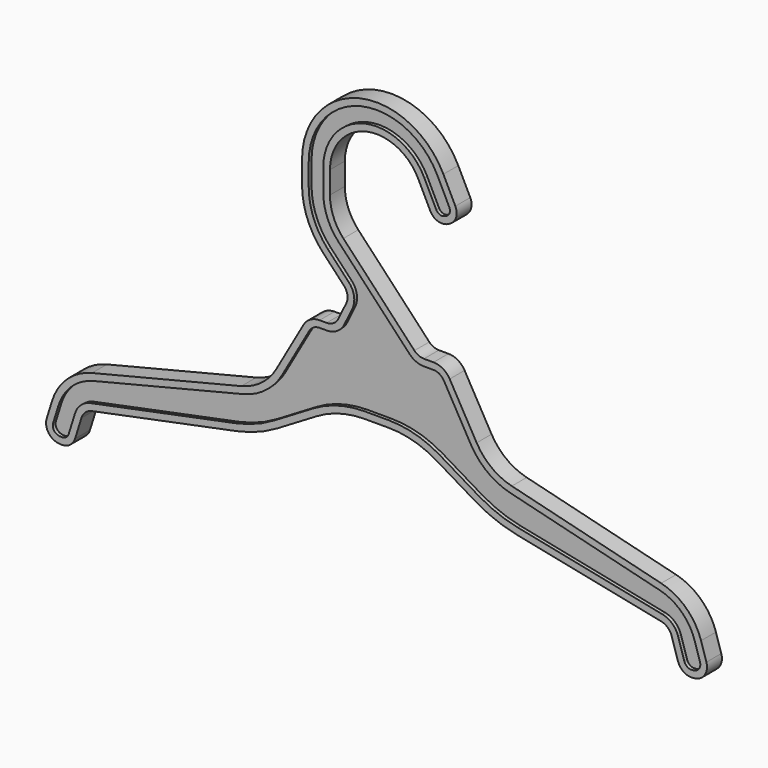
from build123d import *

# Parameters (mm, degrees)
F1_DEPTH  = 1
F2_R      = 0.75
F3_R      = 5
F4_R      = 7
F7_DEPTH  = 1
F8_R      = 0.7
F11_DEPTH = 0.2
F11_TAPER = -3
F12_DEPTH = 0.25


with BuildPart() as f1:
    # F0 (on Front) → F1 (new body)
    with BuildSketch(Plane.XZ):
        with BuildLine():
            Line((0, 3.8791340776), (0, 0))
            Line((0, 0), (2.0251865008, 0))
            Line((2.0251865008, 0), (6.3344040214, -2.5717868223))
            Line((6.3344040214, -2.5717868223), (15.7106314715, -4.4765495533))
            Line((15.7106314715, -4.4765495533), (16.3651127368, -6.5711004825))
            Line((16.3651127368, -6.5711004825), (17.9794188589, -6.3986200839))
            Line((17.9794188589, -6.3986200839), (17.4191202444, -4.6054839841))
            ThreePointArc((17.4191202444, -4.6054839841), (16.6124059914, -3.3162456661), (15.2771241689, -2.5882719158))
            Line((15.2771241689, -2.5882719158), (7.2609991269, -0.6021870224))
            ThreePointArc((7.2609991269, -0.6021870224), (6.1709304342, -0.0815349086), (5.3745983085, 0.8268612187))
            Line((5.3745983085, 0.8268612187), (3.9265457269, 3.3734363208))
            ThreePointArc((3.9265457269, 3.3734363208), (3.5600964268, 3.7435131157), (3.0572556186, 3.8791340776))
            Line((3.0572556186, 3.8791340776), (0, 3.8791340776))
        make_face()
    extrude(amount=F1_DEPTH)

    # F2
    f2_edges = [f1.edges().sort_by_distance(p)[0] for p in [
        (15.710631, -0.5, -4.47655),
        (16.365113, -0.5, -6.5711),
        (17.979419, -0.5, -6.39862),
    ]]
    fillet(f2_edges, radius=F2_R)

    # F3
    f3_edges = [f1.edges().sort_by_distance(p)[0] for p in [
        (2.025187, -0.5, 0),
    ]]
    fillet(f3_edges, radius=F3_R)

    # F4
    f4_edges = [f1.edges().sort_by_distance(p)[0] for p in [
        (6.334404, -0.5, -2.571787),
    ]]
    fillet(f4_edges, radius=F4_R)

    # F5: F1 across face


with BuildPart() as f1_1:
    add(f1.part)
    add(f1.part.mirror(Plane(origin=(0, -0.5, 1.9395670388), x_dir=(0, -1, 0), z_dir=(-1, 0, 0))))

    # F6 (on Front) → F7 (join, through all)
    with BuildSketch(Plane.XZ):
        with BuildLine():
            Line((-2.2406440884, 3.8791340776), (2.2406440884, 3.8791340776))
            Line((2.2406440884, 3.8791340776), (-1.7804428529, 8.159283222))
            ThreePointArc((-1.7804428529, 8.159283222), (-2.3135607562, 8.999038565), (-2.5, 9.9760974902))
            Line((-2.5, 9.9760974902), (-2.5, 11.1726051906))
            ThreePointArc((-2.5, 11.1726051906), (-0.5676238866, 13.6073132067), (2.2422424987, 12.278203932))
            Line((2.2422424987, 12.278203932), (3.1937244109, 10.3485226647))
            Line((3.1937244109, 10.3485226647), (4.5390699102, 11.0118819096))
            Line((4.5390699102, 11.0118819096), (3.587587998, 12.9415631768))
            ThreePointArc((3.587587998, 12.9415631768), (-0.9081982185, 15.0681380163), (-4, 11.1726051906))
            Line((-4, 11.1726051906), (-4, 9.9760974902))
            ThreePointArc((-4, 9.9760974902), (-3.7081651818, 8.4466994518), (-2.8736715248, 7.132223793))
            Line((-2.8736715248, 7.132223793), (-1.4150288853, 5.5796067675))
            Line((-1.4150288853, 5.5796067675), (-2.2406440884, 3.8791340776))
        make_face()
    extrude(amount=F7_DEPTH)

    # F8
    f8_edges = [f1_1.edges().sort_by_distance(p)[0] for p in [
        (4.53907, -0.5, 11.011882),
        (3.193724, -0.5, 10.348523),
        (-1.415029, -0.5, 5.579607),
        (-2.240644, -0.5, 3.879134),
        (2.240644, -0.5, 3.879134),
    ]]
    fillet(f8_edges, radius=F8_R)

    # F9 (on face) → F11 (cut)
    with BuildSketch(Plane.XZ.offset(1)):
        with BuildLine():
            ThreePointArc((-2.859999859, 11.1726051906), (-0.6493616942, 13.9579110237), (2.5651252921, 12.4374100884))
            Line((2.5651252921, 12.4374100884), (3.2070395567, 11.1355567208))
            ThreePointArc((3.2070395567, 11.1355567208), (3.4026775405, 10.9639678294), (3.6623461542, 10.9809731057))
            Line((3.6623461542, 10.9809731057), (3.7520358541, 11.0251970554))
            ThreePointArc((3.7520358541, 11.0251970554), (3.9236247455, 11.2208350391), (3.9066194692, 11.4805036528))
            Line((3.9066194692, 11.4805036528), (3.2647052046, 12.7823570204))
            ThreePointArc((3.2647052046, 12.7823570204), (-0.8264604108, 14.7175401993), (-3.640000141, 11.1726051906))
            Line((-3.640000141, 11.1726051906), (-3.640000141, 9.9760974902))
            ThreePointArc((-3.640000141, 9.9760974902), (-3.3734602507, 8.5792607871), (-2.6112967463, 7.3787179594))
            Line((-2.6112967463, 7.3787179594), (-1.4827422509, 6.1774553087))
            ThreePointArc((-1.4827422509, 6.1774553087), (-1.2073683376, 5.6112256088), (-1.3017394679, 4.9886977339))
            Line((-1.3017394679, 4.9886977339), (-1.7253724008, 4.1161650695))
            ThreePointArc((-1.7253724008, 4.1161650695), (-2.1164055127, 3.6807057876), (-2.6789233426, 3.5191342185))
            Line((-2.6789233426, 3.5191342185), (-3.0572556186, 3.5191342185))
            ThreePointArc((-3.0572556186, 3.5191342185), (-3.3790738067, 3.4323367838), (-3.6136014104, 3.1954875829))
            Line((-3.6136014104, 3.1954875829), (-5.061653992, 0.6489124808))
            ThreePointArc((-5.061653992, 0.6489124808), (-5.9535459354, -0.368491139), (-7.17442282, -0.9516214821))
            Line((-7.17442282, -0.9516214821), (-15.190547862, -2.9377063754))
            ThreePointArc((-15.190547862, -2.9377063754), (-16.3655959286, -3.5783233099), (-17.0755045091, -4.7128530904))
            Line((-17.0755045091, -4.7128530904), (-17.3632230578, -5.6336451516))
            ThreePointArc((-17.3632230578, -5.6336451516), (-17.3170326649, -5.9639356292), (-17.0324061, -6.1377547031))
            Line((-17.0324061, -6.1377547031), (-16.9388509749, -6.1477505924))
            ThreePointArc((-16.9388509749, -6.1477505924), (-16.6834434143, -6.0860179276), (-16.5251666123, -5.8762742796))
            Line((-16.5251666123, -5.8762742796), (-16.1864406792, -4.7922421529))
            ThreePointArc((-16.1864406792, -4.7922421529), (-15.8706350842, -4.2992551792), (-15.3479391616, -4.0355160988))
            Line((-15.3479391616, -4.0355160988), (-7.5753236618, -2.4565240783))
            ThreePointArc((-7.5753236618, -2.4565240783), (-6.5007684167, -2.1419000809), (-5.4943547772, -1.6511977058))
            Line((-5.4943547772, -1.6511977058), (-3.3934819546, -0.3973744735))
            ThreePointArc((-3.3934819546, -0.3973744735), (-2.0712836825, 0.167188339), (-0.6465861154, 0.359999859))
            Line((-0.6465861154, 0.359999859), (0.6465861154, 0.359999859))
            ThreePointArc((0.6465861154, 0.359999859), (2.0712836825, 0.167188339), (3.3934819546, -0.3973744735))
            Line((3.3934819546, -0.3973744735), (5.4943547772, -1.6511977058))
            ThreePointArc((5.4943547772, -1.6511977058), (6.5007684167, -2.1419000809), (7.5753236618, -2.4565240783))
            Line((7.5753236618, -2.4565240783), (15.3479391616, -4.0355160988))
            ThreePointArc((15.3479391616, -4.0355160988), (15.8706350842, -4.2992551792), (16.1864406792, -4.7922421529))
            Line((16.1864406792, -4.7922421529), (16.5251666123, -5.8762742796))
            ThreePointArc((16.5251666123, -5.8762742796), (16.6834434143, -6.0860179276), (16.9388509749, -6.1477505924))
            Line((16.9388509749, -6.1477505924), (17.0324061, -6.1377547031))
            ThreePointArc((17.0324061, -6.1377547031), (17.3170326649, -5.9639356292), (17.3632230578, -5.6336451516))
            Line((17.3632230578, -5.6336451516), (17.0755045091, -4.7128530904))
            ThreePointArc((17.0755045091, -4.7128530904), (16.3655959286, -3.5783233099), (15.190547862, -2.9377063754))
            Line((15.190547862, -2.9377063754), (7.17442282, -0.9516214821))
            ThreePointArc((7.17442282, -0.9516214821), (5.9535459354, -0.368491139), (5.061653992, 0.6489124808))
            Line((5.061653992, 0.6489124808), (3.6136014104, 3.1954875829))
            ThreePointArc((3.6136014104, 3.1954875829), (3.3790738067, 3.4323367838), (3.0572556186, 3.5191342185))
            Line((3.0572556186, 3.5191342185), (2.5434703937, 3.5191342185))
            ThreePointArc((2.5434703937, 3.5191342185), (2.1225999132, 3.6062683418), (1.770922235, 3.8533455109))
            Line((1.770922235, 3.8533455109), (-2.0428176314, 7.9127890556))
            ThreePointArc((-2.0428176314, 7.9127890556), (-2.6482656872, 8.8664772298), (-2.859999859, 9.9760974902))
            Line((-2.859999859, 9.9760974902), (-2.859999859, 11.1726051906))
        make_face()
    extrude(amount=-F11_DEPTH, taper=F11_TAPER, mode=Mode.SUBTRACT)

    # F10 (on face) → F12 (cut)
    with BuildSketch(Plane(origin=(0, 0, 0), x_dir=(-1, 0, 0), z_dir=(0, 1, 0))):
        with BuildLine():
            Line((-3.2070395567, 11.1355567208), (-2.5651252921, 12.4374100884))
            ThreePointArc((-2.5651252921, 12.4374100884), (0.6493616942, 13.9579110237), (2.859999859, 11.1726051906))
            Line((2.859999859, 11.1726051906), (2.859999859, 9.9760974902))
            ThreePointArc((2.859999859, 9.9760974902), (2.6482656872, 8.8664772298), (2.0428176314, 7.9127890556))
            Line((2.0428176314, 7.9127890556), (-1.770922235, 3.8533455109))
            ThreePointArc((-1.770922235, 3.8533455109), (-2.1225999132, 3.6062683418), (-2.5434703937, 3.5191342185))
            Line((-2.5434703937, 3.5191342185), (-3.0572556186, 3.5191342185))
            ThreePointArc((-3.0572556186, 3.5191342185), (-3.3790738067, 3.4323367838), (-3.6136014104, 3.1954875829))
            Line((-3.6136014104, 3.1954875829), (-5.061653992, 0.6489124808))
            ThreePointArc((-5.061653992, 0.6489124808), (-5.9535459354, -0.368491139), (-7.17442282, -0.9516214821))
            Line((-7.17442282, -0.9516214821), (-15.190547862, -2.9377063754))
            ThreePointArc((-15.190547862, -2.9377063754), (-16.3655959286, -3.5783233099), (-17.0755045091, -4.7128530904))
            Line((-17.0755045091, -4.7128530904), (-17.3632230578, -5.6336451516))
            ThreePointArc((-17.3632230578, -5.6336451516), (-17.3170326649, -5.9639356292), (-17.0324061, -6.1377547031))
            Line((-17.0324061, -6.1377547031), (-16.9388509749, -6.1477505924))
            ThreePointArc((-16.9388509749, -6.1477505924), (-16.6834434143, -6.0860179276), (-16.5251666123, -5.8762742796))
            Line((-16.5251666123, -5.8762742796), (-16.1864406792, -4.7922421529))
            ThreePointArc((-16.1864406792, -4.7922421529), (-15.8706350842, -4.2992551792), (-15.3479391616, -4.0355160988))
            Line((-15.3479391616, -4.0355160988), (-7.5753236618, -2.4565240783))
            ThreePointArc((-7.5753236618, -2.4565240783), (-6.5007684167, -2.1419000809), (-5.4943547772, -1.6511977058))
            Line((-5.4943547772, -1.6511977058), (-3.3934819546, -0.3973744735))
            ThreePointArc((-3.3934819546, -0.3973744735), (-2.0712836825, 0.167188339), (-0.6465861154, 0.359999859))
            Line((-0.6465861154, 0.359999859), (0.6465861154, 0.359999859))
            ThreePointArc((0.6465861154, 0.359999859), (2.0712836825, 0.167188339), (3.3934819546, -0.3973744735))
            Line((3.3934819546, -0.3973744735), (5.4943547772, -1.6511977058))
            ThreePointArc((5.4943547772, -1.6511977058), (6.5007684167, -2.1419000809), (7.5753236618, -2.4565240783))
            Line((7.5753236618, -2.4565240783), (15.3479391616, -4.0355160988))
            ThreePointArc((15.3479391616, -4.0355160988), (15.8706350842, -4.2992551792), (16.1864406792, -4.7922421529))
            Line((16.1864406792, -4.7922421529), (16.5251666123, -5.8762742796))
            ThreePointArc((16.5251666123, -5.8762742796), (16.6834434143, -6.0860179276), (16.9388509749, -6.1477505924))
            Line((16.9388509749, -6.1477505924), (17.0324061, -6.1377547031))
            ThreePointArc((17.0324061, -6.1377547031), (17.3170326649, -5.9639356292), (17.3632230578, -5.6336451516))
            Line((17.3632230578, -5.6336451516), (17.0755045091, -4.7128530904))
            ThreePointArc((17.0755045091, -4.7128530904), (16.3655959286, -3.5783233099), (15.190547862, -2.9377063754))
            Line((15.190547862, -2.9377063754), (7.17442282, -0.9516214821))
            ThreePointArc((7.17442282, -0.9516214821), (5.9535459354, -0.368491139), (5.061653992, 0.6489124808))
            Line((5.061653992, 0.6489124808), (3.6136014104, 3.1954875829))
            ThreePointArc((3.6136014104, 3.1954875829), (3.3790738067, 3.4323367838), (3.0572556186, 3.5191342185))
            Line((3.0572556186, 3.5191342185), (2.6789233426, 3.5191342185))
            ThreePointArc((2.6789233426, 3.5191342185), (2.1164055127, 3.6807057876), (1.7253724008, 4.1161650695))
            Line((1.7253724008, 4.1161650695), (1.3017394679, 4.9886977339))
            ThreePointArc((1.3017394679, 4.9886977339), (1.2073683376, 5.6112256088), (1.4827422509, 6.1774553087))
            Line((1.4827422509, 6.1774553087), (2.6112967463, 7.3787179594))
            ThreePointArc((2.6112967463, 7.3787179594), (3.3734602507, 8.5792607871), (3.640000141, 9.9760974902))
            Line((3.640000141, 9.9760974902), (3.640000141, 11.1726051906))
            ThreePointArc((3.640000141, 11.1726051906), (0.8264604108, 14.7175401993), (-3.2647052046, 12.7823570204))
            Line((-3.2647052046, 12.7823570204), (-3.9066194692, 11.4805036528))
            ThreePointArc((-3.9066194692, 11.4805036528), (-3.9236247455, 11.2208350391), (-3.7520358541, 11.0251970554))
            Line((-3.7520358541, 11.0251970554), (-3.6623461542, 10.9809731057))
            ThreePointArc((-3.6623461542, 10.9809731057), (-3.4026775405, 10.9639678294), (-3.2070395567, 11.1355567208))
        make_face()
    extrude(amount=-F12_DEPTH, mode=Mode.SUBTRACT)


solid = f1_1.part
